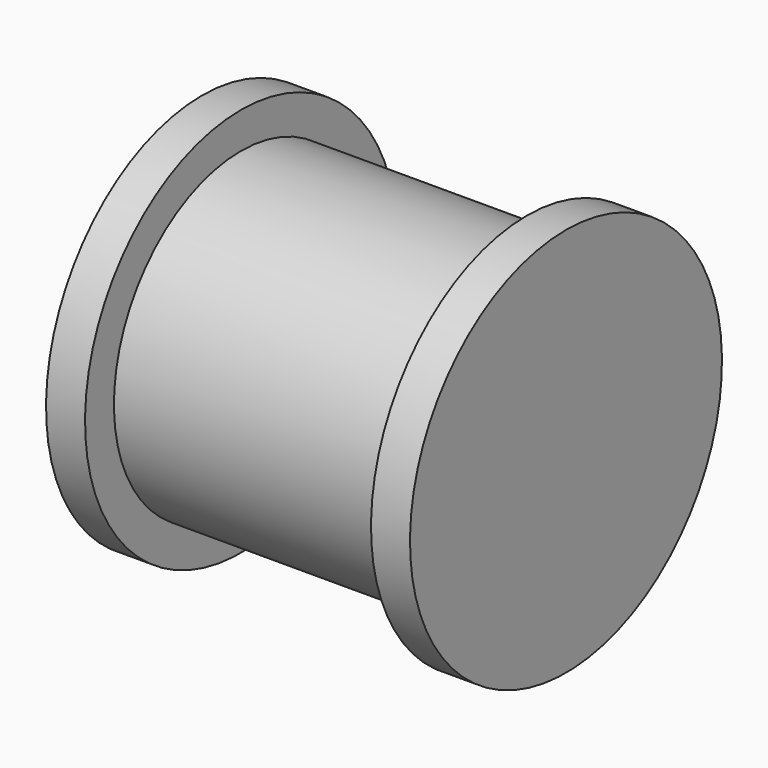
from build123d import *

# Parameters (mm, degrees)
CYLINDER012_R     = 7.5
CYLINDER012_DEPTH = 1.5
CYLINDER011_R     = 6.11
CYLINDER011_DEPTH = 11
CYLINDER013_R     = 7.5
CYLINDER013_DEPTH = 1.5


with BuildPart() as cylinder012:
    # Cylinder012 → Cylinder012 (new body)
    with BuildSketch(Plane.ZY.offset(5.5)):
        Circle(CYLINDER012_R)
    extrude(amount=CYLINDER012_DEPTH)


with BuildPart() as cylinder011:
    # Cylinder011 → Cylinder011 (new body)
    with BuildSketch(Plane.ZY.offset(-5.5)):
        Circle(CYLINDER011_R)
    extrude(amount=CYLINDER011_DEPTH)


with BuildPart() as f_20t_9mm_pulley:
    # Cylinder013 → Cylinder013 (new body)
    with BuildSketch(Plane.ZY.offset(-7)):
        Circle(CYLINDER013_R)
    extrude(amount=CYLINDER013_DEPTH)

    # Fusion013005011003: union Cylinder012, Cylinder011
    add(cylinder012.part)
    add(cylinder011.part)


with BuildPart() as f_20t_9mm_pulley_1:
    # Fusion013005011003 placement: moved
    add(f_20t_9mm_pulley.part.moved(Location((15.5, 0, 3))))


solid = f_20t_9mm_pulley_1.part
